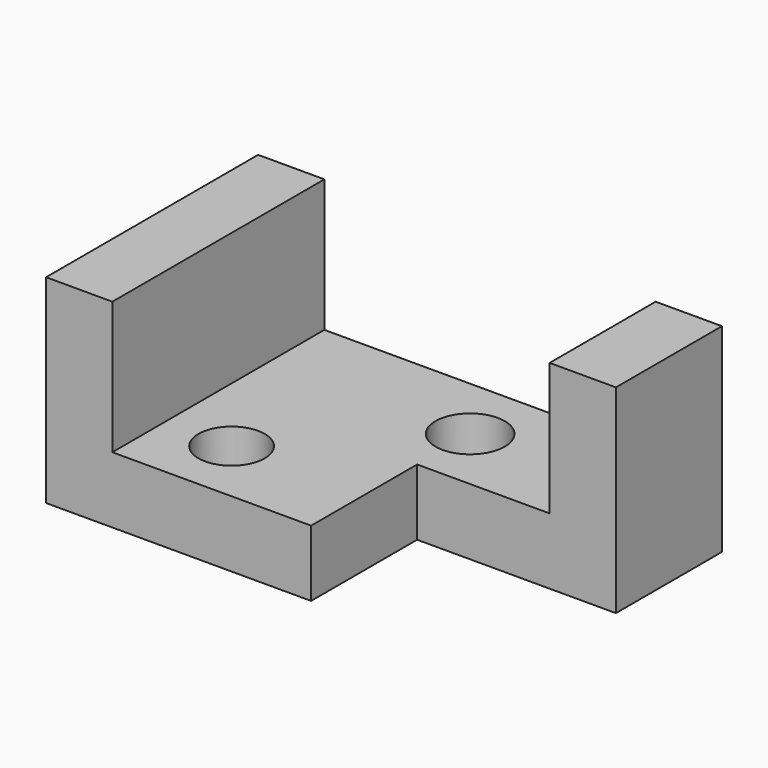
from build123d import *

# Parameters (mm, degrees)
F0_W     = 88.9
F0_H     = 38.1
F1_DEPTH = 50.8
F2_W     = 38.1
F2_H     = 25.4
F3_DEPTH = 38.101
F4_W     = 63.5
F4_H     = 25.4
F5_DEPTH = 50.801
F6_R     = 6.35
F6_R_2   = 6.637383
F7_DEPTH = 12.701


with BuildPart() as f1:
    # F0 (on Front) → F1 (new body)
    with BuildSketch(Plane.XZ):
        Rectangle(F0_W, F0_H)
    extrude(amount=F1_DEPTH)

    # F2 (on face) → F3 (cut, through all)
    with BuildSketch(Plane.XY.offset(19.05)):
        with Locations((25.4, -38.1)):
            Rectangle(F2_W, F2_H)
    extrude(amount=-F3_DEPTH, mode=Mode.SUBTRACT)

    # F4 (on face) → F5 (cut, through all)
    with BuildSketch(Plane.XZ.offset(50.8)):
        with Locations((0, 6.35)):
            Rectangle(F4_W, F4_H)
    extrude(amount=-F5_DEPTH, mode=Mode.SUBTRACT)

    # F6 (on face) → F7 (cut, through all)
    with BuildSketch(Plane.XY.offset(-6.35)):
        with Locations((-19.05, -38.1)):
            Circle(F6_R)
        with Locations((6.35, -12.7)):
            Circle(F6_R_2)
    extrude(amount=-F7_DEPTH, mode=Mode.SUBTRACT)


solid = f1.part
